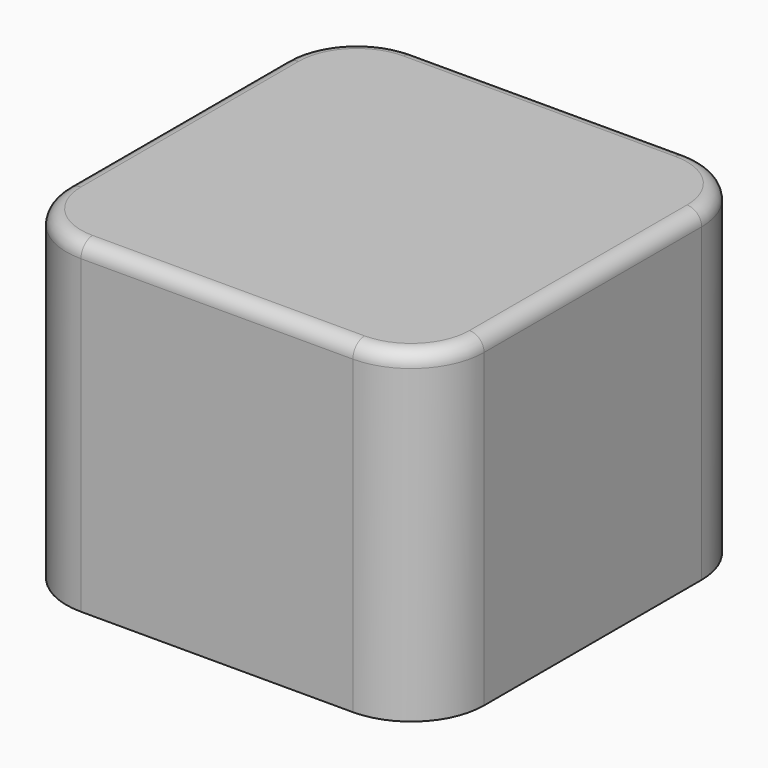
from build123d import *

# Parameters (mm, degrees)
BOX001_W     = 80
BOX001_H     = 80
BOX001_DEPTH = 64
FILLET_R     = 12
THICKNESS_T  = 3


with BuildPart() as part:
    # Box001 → Box001 (new body)
    with BuildSketch(Plane.XY):
        with Locations((40, 40)):
            Rectangle(BOX001_W, BOX001_H)
    extrude(amount=BOX001_DEPTH)

    # Fillet
    fillet_edges = [part.edges().sort_by_distance(p)[0] for p in [
        (0, 0, 32),
        (0, 80, 32),
        (80, 0, 32),
        (80, 80, 32),
    ]]
    fillet(fillet_edges, radius=FILLET_R)

    # Thickness
    thickness_openings = [part.faces().sort_by_distance(p)[0] for p in [
        (40, 40, 0),
    ]]
    offset(amount=THICKNESS_T, openings=thickness_openings)


solid = part.part
